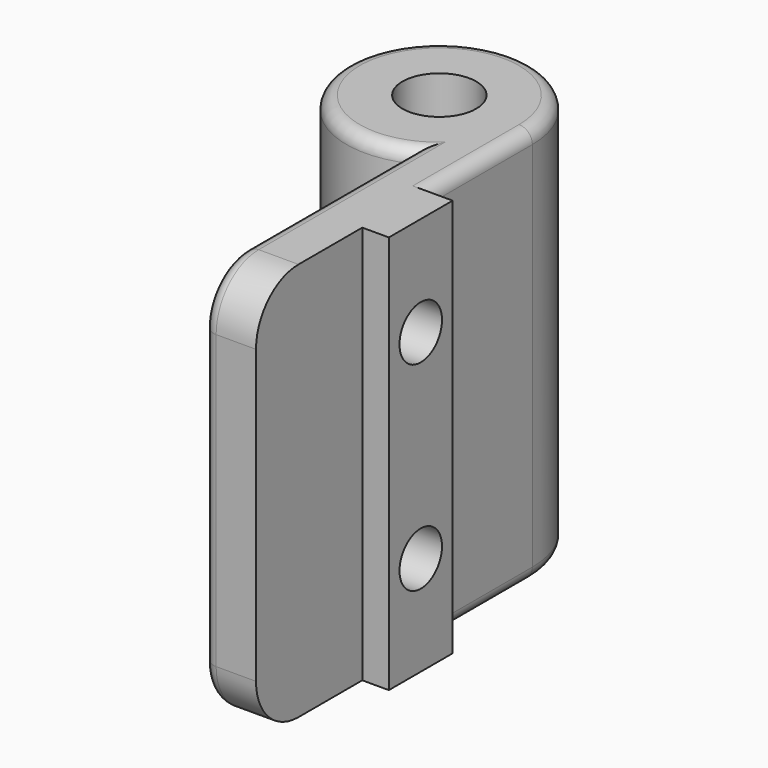
from build123d import *

# Parameters (mm, degrees)
SKETCH_R     = 2.777235
PAD_DEPTH    = 30
SKETCH001_W  = 6
SKETCH001_H  = 30
PAD001_DEPTH = 2
SKETCH002_R  = 2
POCKET_DEPTH = 6
FILLET_R     = 4
FILLET001_R  = 4
FILLET002_R  = 1
FILLET003_R  = 1
FILLET004_R  = 1


with BuildPart() as part:
    # Sketch → Pad (new body)
    with BuildSketch(Plane.XY):
        with BuildLine():
            Line((14, 0), (14, -26))
            Line((14, -26), (10, -26))
            Line((10, -26), (10, -6.324555))
            ThreePointArc((14, 0), (1.08392, 3.741657), (10, -6.324555))
        make_face()
        with Locations((7, 0)):
            Circle(SKETCH_R, mode=Mode.SUBTRACT)
    extrude(amount=PAD_DEPTH)

    # Sketch001 → Pad001 (new body)
    with BuildSketch(Plane.YZ.offset(14)):
        with Locations((-13, 15)):
            Rectangle(SKETCH001_W, SKETCH001_H)
    extrude(amount=PAD001_DEPTH)

    # Sketch002 → Pocket (cut)
    with BuildSketch(Plane.YZ.offset(16)):
        with Locations((-13, 22.5)):
            Circle(SKETCH002_R)
        with Locations((-13, 7.5)):
            Circle(SKETCH002_R)
    extrude(amount=-POCKET_DEPTH, mode=Mode.SUBTRACT)

    # Fillet
    fillet_edges = [part.edges().sort_by_distance(p)[0] for p in [
        (12, -26, 0),
    ]]
    fillet(fillet_edges, radius=FILLET_R)

    # Fillet001
    fillet001_edges = [part.edges().sort_by_distance(p)[0] for p in [
        (12, -26, 30),
    ]]
    fillet(fillet001_edges, radius=FILLET001_R)

    # Fillet002
    fillet002_edges = [part.edges().sort_by_distance(p)[0] for p in [
        (10, -26, 15),
    ]]
    fillet(fillet002_edges, radius=FILLET002_R)

    # Fillet003
    fillet003_edges = [part.edges().sort_by_distance(p)[0] for p in [
        (1.08392, 3.741657, 30),
    ]]
    fillet(fillet003_edges, radius=FILLET003_R)

    # Fillet004
    fillet004_edges = [part.edges().sort_by_distance(p)[0] for p in [
        (1.08392, 3.741657, 0),
    ]]
    fillet(fillet004_edges, radius=FILLET004_R)


solid = part.part
